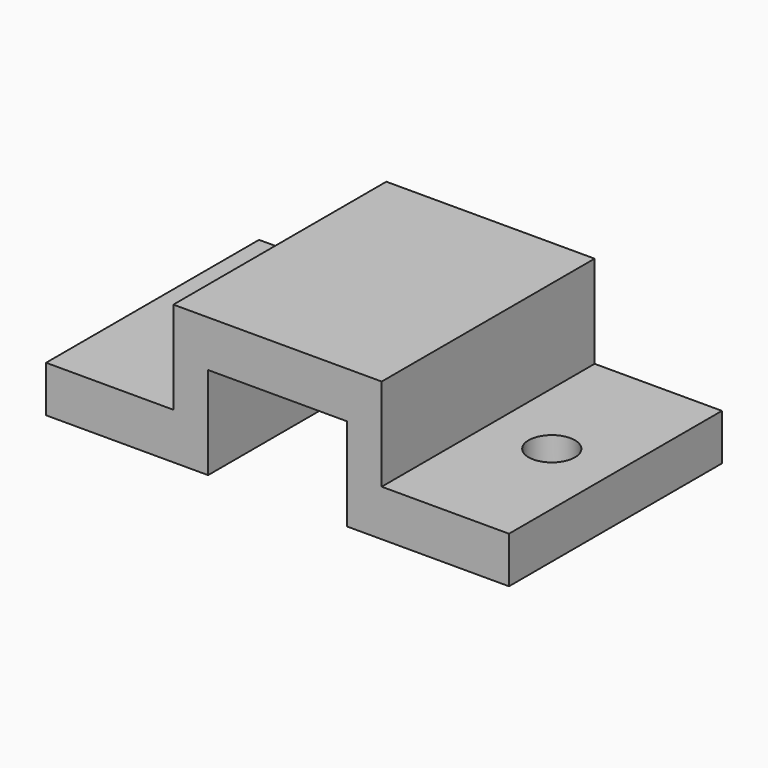
from build123d import *

# Parameters (mm, degrees)
F1_DEPTH = 23
F2_R     = 2
F3_DEPTH = 25


with BuildPart() as f1:
    # F0 (on Front) → F1 (new body)
    with BuildSketch(Plane.XZ):
        Polygon((20, -6), (20, -2), (9, -2), (9, 6), (8, 6), (-8, 6), (-9, 6), (-9, -2), (-20, -2), (-20, -6), (-6, -6), (-6, 0), (-6, 2), (6, 2), (6, 0), (6, -6), align=None)
    extrude(amount=F1_DEPTH)

    # F2 (on Top) → F3 (cut)
    with BuildSketch(Plane.XY):
        with Locations((-14.5, -11.5)):
            Circle(F2_R)
        with Locations((14.5, -11.5)):
            Circle(F2_R)
    extrude(amount=-F3_DEPTH, mode=Mode.SUBTRACT)


solid = f1.part
